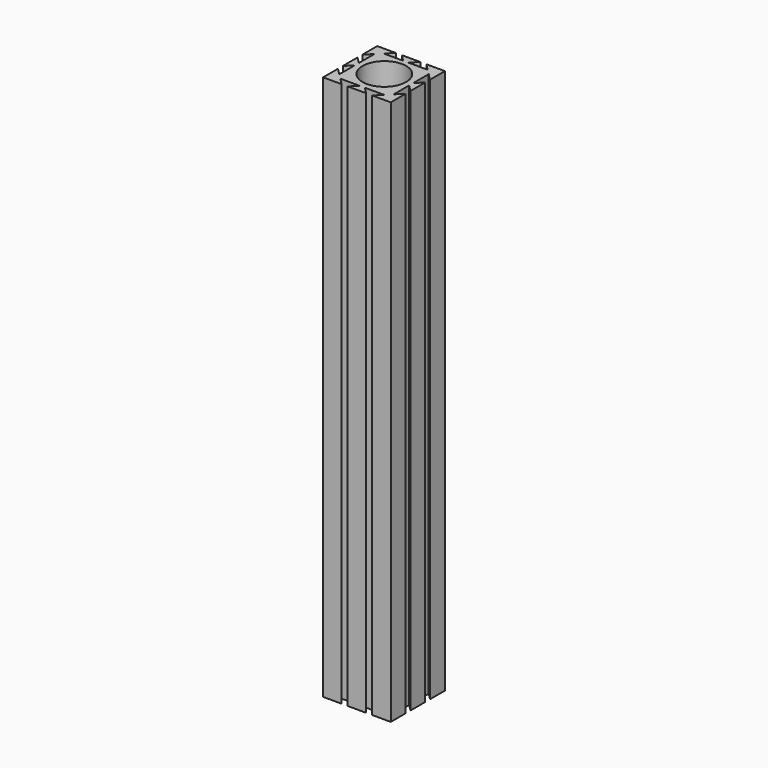
from build123d import *

# Parameters (mm, degrees)
SKETCH_R      = 17.979064
EXTRUDE_DEPTH = 450


with BuildPart() as part:
    # Sketch → Extrude (new body)
    with BuildSketch(Plane.XY):
        Polygon((81.516394, -47.278988), (81.516394, -62.594612), (66.20077, -62.594612), (71.70077, -57.094612), (55.70077, -57.094612), (61.20077, -62.594612), (45.994091, -62.594612), (51.494091, -57.094612), (35.494091, -57.094612), (40.994091, -62.594612), (25.678467, -62.594612), (25.678467, -47.278988), (31.178467, -52.778988), (31.178467, -36.778988), (25.678467, -42.278988), (25.678467, -27.072309), (31.178467, -32.572309), (31.178467, -16.572309), (25.678467, -22.072309), (25.678467, -6.756685), (40.994091, -6.756685), (35.494091, -12.256685), (51.494091, -12.256685), (45.994091, -6.756685), (61.20077, -6.756685), (55.70077, -12.256685), (71.70077, -12.256685), (66.20077, -6.756685), (81.516394, -6.756685), (81.516394, -22.072309), (76.016394, -16.572309), (76.016394, -32.572309), (81.516394, -27.072309), (81.516394, -42.278988), (76.016394, -36.778988), (76.016394, -52.778988), align=None)
        with Locations((53.57452, -34.286552)):
            Circle(SKETCH_R, mode=Mode.SUBTRACT)
    extrude(amount=EXTRUDE_DEPTH)


solid = part.part
